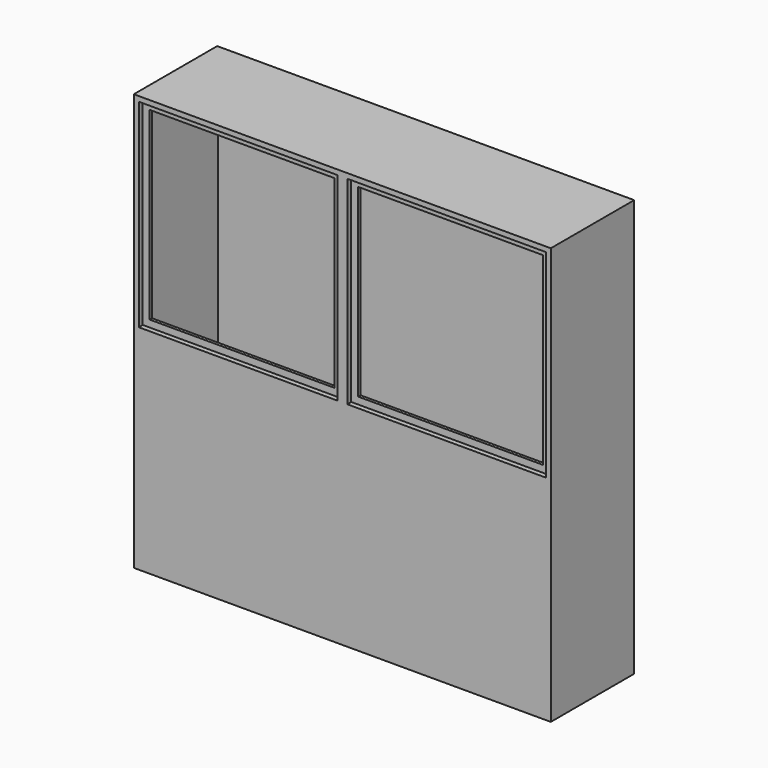
from build123d import *

# Parameters (mm, degrees)
F0_W      = 420
F0_H      = 420
F1_DEPTH  = 105
F2_T      = -6
F3_W      = 6
F3_H      = 408
F4_DEPTH  = 18
F5_W      = 6
F5_H      = 408
F6_DEPTH  = 18
F7_W      = 6
F7_H      = 18
F8_DEPTH  = 372
F9_W      = 6
F9_H      = 18
F10_DEPTH = 372
F11_W     = 408
F11_H     = 408
F11_W_2   = 400
F11_H_2   = 400
F12_DEPTH = 10
F14_W     = 400
F14_H     = 400
F15_DEPTH = 10
F16_DEPTH = 25.4
F18_DEPTH = 25.4


with BuildPart() as f1:
    # F0 (on Front) → F1 (new body, symmetric)
    with BuildSketch(Plane.XZ):
        Rectangle(F0_W, F0_H)
    extrude(amount=F1_DEPTH, both=True)

    # F2
    f2_openings = [f1.faces().sort_by_distance(p)[0] for p in [
        (0, -105, 0),
    ]]
    offset(amount=F2_T, openings=f2_openings)

    # F3 (on face) → F4 (join)
    with BuildSketch(Plane.YZ.offset(-204)):
        with Locations((-92, 0)):
            Rectangle(F3_W, F3_H)
    extrude(amount=F4_DEPTH)

    # F5 (on face) → F6 (join)
    with BuildSketch(Plane(origin=(204, 0, 0), x_dir=(0, -1, 0), z_dir=(-1, 0, 0))):
        with Locations((92, 0)):
            Rectangle(F5_W, F5_H)
    extrude(amount=F6_DEPTH)

    # F7 (on face) → F8 (join, through all)
    with BuildSketch(Plane.YZ.offset(-186)):
        with Locations((-92, 195)):
            Rectangle(F7_W, F7_H)
    extrude(amount=F8_DEPTH)

    # F9 (on face) → F10 (join, through all)
    with BuildSketch(Plane.YZ.offset(-186)):
        with Locations((-92, -195)):
            Rectangle(F9_W, F9_H)
    extrude(amount=F10_DEPTH)

    # F11 (on face) → F12 (join)
    with BuildSketch(Plane.XZ.offset(95)):
        Rectangle(F11_W, F11_H)
        Rectangle(F11_W_2, F11_H_2, mode=Mode.SUBTRACT)
    extrude(amount=F12_DEPTH)

    # F13: F1 across face


with BuildPart() as f1_1:
    add(f1.part)
    add(f1.part.mirror(Plane(origin=(0, 0, -210), x_dir=(1, 0, 0), z_dir=(0, 0, -1))))

    # F14 (on face) → F15 (join)
    with BuildSketch(Plane.XZ.offset(95)):
        with Locations((0, -420)):
            Rectangle(F14_W, F14_H)
    extrude(amount=F15_DEPTH)

    # F16 (cut): a face of the model
    f16_faces = [f1_1.faces().sort_by_distance(p)[0] for p in [
        (0, 5, -204),
    ]]
    extrude(f16_faces, amount=-F16_DEPTH, mode=Mode.SUBTRACT)

    # F17: F1 across face


with BuildPart() as f1_2:
    add(f1_1.part)
    add(f1_1.part.mirror(Plane(origin=(210, 0, -210), x_dir=(0, 1, 0), z_dir=(1, 0, 0))))

    # F18 (cut): a face of the model
    f18_faces = [f1_2.faces().sort_by_distance(p)[0] for p in [
        (216, 5, -210),
    ]]
    extrude(f18_faces, amount=-F18_DEPTH, mode=Mode.SUBTRACT)


solid = f1_2.part
